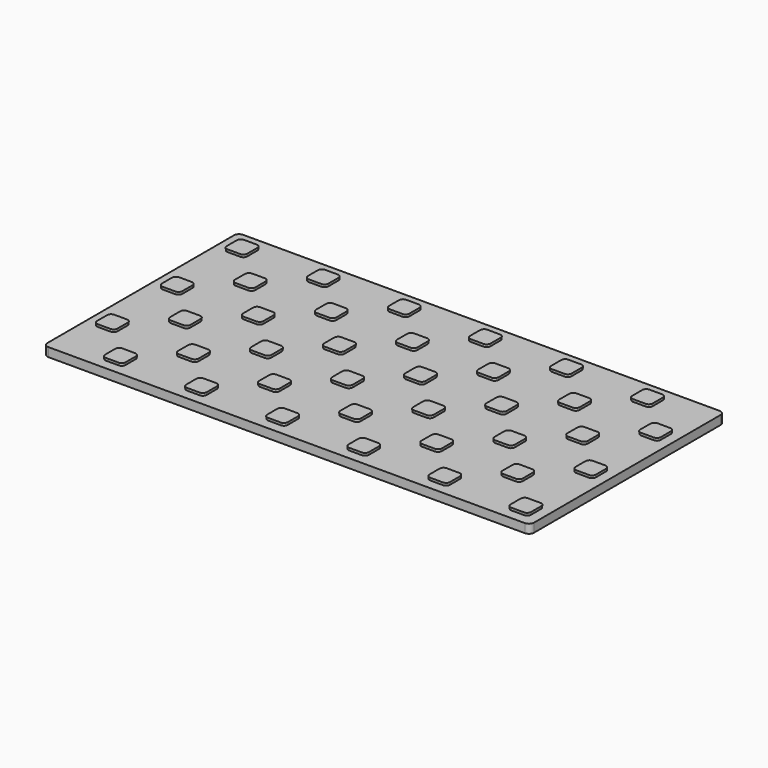
from build123d import *

# Parameters (mm, degrees)
F1_DEPTH = 22.225
F3_DEPTH = 6.35
F3_TAPER = -3


with BuildPart() as f1:
    # F0 (on Top) → F1 (new body)
    with BuildSketch(Plane.XY):
        with BuildLine():
            ThreePointArc((0, 12.7), (3.7197438789, 3.7197438789), (12.7, 0))
            Line((12.7, 0), (1206.5, 0))
            ThreePointArc((1206.5, 0), (1215.4802561211, 3.7197438789), (1219.2, 12.7))
            Line((1219.2, 12.7), (1219.2, 596.9))
            ThreePointArc((1219.2, 596.9), (1215.4802561211, 605.8802561211), (1206.5, 609.6))
            Line((1206.5, 609.6), (12.7, 609.6))
            ThreePointArc((12.7, 609.6), (3.7197438789, 605.8802561211), (0, 596.9))
            Line((0, 596.9), (0, 12.7))
        make_face()
    extrude(amount=F1_DEPTH)

    # F2 (on face) → F3 (join)
    with BuildSketch(Plane.XY.offset(22.225)):
        with BuildLine():
            ThreePointArc((76.2, 574.675), (73.4101920908, 581.4101920908), (66.675, 584.2))
            Line((66.675, 584.2), (34.925, 584.2))
            ThreePointArc((34.925, 584.2), (28.1898079092, 581.4101920908), (25.4, 574.675))
            Line((25.4, 574.675), (25.4, 542.925))
            ThreePointArc((25.4, 542.925), (28.1898079092, 536.1898079092), (34.925, 533.4))
            Line((34.925, 533.4), (66.675, 533.4))
            ThreePointArc((66.675, 533.4), (73.4101920908, 536.1898079092), (76.2, 542.925))
            Line((76.2, 542.925), (76.2, 574.675))
        make_face()
        with BuildLine():
            Line((76.2, 339.725), (76.2, 371.475))
            ThreePointArc((76.2, 371.475), (73.4101920908, 378.2101920908), (66.675, 381))
            Line((66.675, 381), (34.925, 381))
            ThreePointArc((34.925, 381), (28.1898079092, 378.2101920908), (25.4, 371.475))
            Line((25.4, 371.475), (25.4, 339.725))
            ThreePointArc((25.4, 339.725), (28.1898079092, 332.9898079092), (34.925, 330.2))
            Line((34.925, 330.2), (66.675, 330.2))
            ThreePointArc((66.675, 330.2), (73.4101920908, 332.9898079092), (76.2, 339.725))
        make_face()
        with BuildLine():
            Line((76.2, 136.525), (76.2, 168.275))
            ThreePointArc((76.2, 168.275), (73.4101920908, 175.0101920908), (66.675, 177.8))
            Line((66.675, 177.8), (34.925, 177.8))
            ThreePointArc((34.925, 177.8), (28.1898079092, 175.0101920908), (25.4, 168.275))
            Line((25.4, 168.275), (25.4, 136.525))
            ThreePointArc((25.4, 136.525), (28.1898079092, 129.7898079092), (34.925, 127))
            Line((34.925, 127), (66.675, 127))
            ThreePointArc((66.675, 127), (73.4101920908, 129.7898079092), (76.2, 136.525))
        make_face()
        with BuildLine():
            Line((279.4, 542.925), (279.4, 574.675))
            ThreePointArc((279.4, 574.675), (276.6101920908, 581.4101920908), (269.875, 584.2))
            Line((269.875, 584.2), (238.125, 584.2))
            ThreePointArc((238.125, 584.2), (231.3898079092, 581.4101920908), (228.6, 574.675))
            Line((228.6, 574.675), (228.6, 542.925))
            ThreePointArc((228.6, 542.925), (231.3898079092, 536.1898079092), (238.125, 533.4))
            Line((238.125, 533.4), (269.875, 533.4))
            ThreePointArc((269.875, 533.4), (276.6101920908, 536.1898079092), (279.4, 542.925))
        make_face()
        with BuildLine():
            Line((279.4, 339.725), (279.4, 371.475))
            ThreePointArc((279.4, 371.475), (276.6101920908, 378.2101920908), (269.875, 381))
            Line((269.875, 381), (238.125, 381))
            ThreePointArc((238.125, 381), (231.3898079092, 378.2101920908), (228.6, 371.475))
            Line((228.6, 371.475), (228.6, 339.725))
            ThreePointArc((228.6, 339.725), (231.3898079092, 332.9898079092), (238.125, 330.2))
            Line((238.125, 330.2), (269.875, 330.2))
            ThreePointArc((269.875, 330.2), (276.6101920908, 332.9898079092), (279.4, 339.725))
        make_face()
        with BuildLine():
            Line((279.4, 136.525), (279.4, 168.275))
            ThreePointArc((279.4, 168.275), (276.6101920908, 175.0101920908), (269.875, 177.8))
            Line((269.875, 177.8), (238.125, 177.8))
            ThreePointArc((238.125, 177.8), (231.3898079092, 175.0101920908), (228.6, 168.275))
            Line((228.6, 168.275), (228.6, 136.525))
            ThreePointArc((228.6, 136.525), (231.3898079092, 129.7898079092), (238.125, 127))
            Line((238.125, 127), (269.875, 127))
            ThreePointArc((269.875, 127), (276.6101920908, 129.7898079092), (279.4, 136.525))
        make_face()
        with BuildLine():
            Line((482.6, 542.925), (482.6, 574.675))
            ThreePointArc((482.6, 574.675), (479.8101920908, 581.4101920908), (473.075, 584.2))
            Line((473.075, 584.2), (441.325, 584.2))
            ThreePointArc((441.325, 584.2), (434.5898079092, 581.4101920908), (431.8, 574.675))
            Line((431.8, 574.675), (431.8, 542.925))
            ThreePointArc((431.8, 542.925), (434.5898079092, 536.1898079092), (441.325, 533.4))
            Line((441.325, 533.4), (473.075, 533.4))
            ThreePointArc((473.075, 533.4), (479.8101920908, 536.1898079092), (482.6, 542.925))
        make_face()
        with BuildLine():
            Line((482.6, 339.725), (482.6, 371.475))
            ThreePointArc((482.6, 371.475), (479.8101920908, 378.2101920908), (473.075, 381))
            Line((473.075, 381), (441.325, 381))
            ThreePointArc((441.325, 381), (434.5898079092, 378.2101920908), (431.8, 371.475))
            Line((431.8, 371.475), (431.8, 339.725))
            ThreePointArc((431.8, 339.725), (434.5898079092, 332.9898079092), (441.325, 330.2))
            Line((441.325, 330.2), (473.075, 330.2))
            ThreePointArc((473.075, 330.2), (479.8101920908, 332.9898079092), (482.6, 339.725))
        make_face()
        with BuildLine():
            Line((482.6, 136.525), (482.6, 168.275))
            ThreePointArc((482.6, 168.275), (479.8101920908, 175.0101920908), (473.075, 177.8))
            Line((473.075, 177.8), (441.325, 177.8))
            ThreePointArc((441.325, 177.8), (434.5898079092, 175.0101920908), (431.8, 168.275))
            Line((431.8, 168.275), (431.8, 136.525))
            ThreePointArc((431.8, 136.525), (434.5898079092, 129.7898079092), (441.325, 127))
            Line((441.325, 127), (473.075, 127))
            ThreePointArc((473.075, 127), (479.8101920908, 129.7898079092), (482.6, 136.525))
        make_face()
        with BuildLine():
            Line((685.8, 542.925), (685.8, 574.675))
            ThreePointArc((685.8, 574.675), (683.0101920908, 581.4101920908), (676.275, 584.2))
            Line((676.275, 584.2), (644.525, 584.2))
            ThreePointArc((644.525, 584.2), (637.7898079092, 581.4101920908), (635, 574.675))
            Line((635, 574.675), (635, 542.925))
            ThreePointArc((635, 542.925), (637.7898079092, 536.1898079092), (644.525, 533.4))
            Line((644.525, 533.4), (676.275, 533.4))
            ThreePointArc((676.275, 533.4), (683.0101920908, 536.1898079092), (685.8, 542.925))
        make_face()
        with BuildLine():
            Line((685.8, 339.725), (685.8, 371.475))
            ThreePointArc((685.8, 371.475), (683.0101920908, 378.2101920908), (676.275, 381))
            Line((676.275, 381), (644.525, 381))
            ThreePointArc((644.525, 381), (637.7898079092, 378.2101920908), (635, 371.475))
            Line((635, 371.475), (635, 339.725))
            ThreePointArc((635, 339.725), (637.7898079092, 332.9898079092), (644.525, 330.2))
            Line((644.525, 330.2), (676.275, 330.2))
            ThreePointArc((676.275, 330.2), (683.0101920908, 332.9898079092), (685.8, 339.725))
        make_face()
        with BuildLine():
            Line((685.8, 136.525), (685.8, 168.275))
            ThreePointArc((685.8, 168.275), (683.0101920908, 175.0101920908), (676.275, 177.8))
            Line((676.275, 177.8), (644.525, 177.8))
            ThreePointArc((644.525, 177.8), (637.7898079092, 175.0101920908), (635, 168.275))
            Line((635, 168.275), (635, 136.525))
            ThreePointArc((635, 136.525), (637.7898079092, 129.7898079092), (644.525, 127))
            Line((644.525, 127), (676.275, 127))
            ThreePointArc((676.275, 127), (683.0101920908, 129.7898079092), (685.8, 136.525))
        make_face()
        with BuildLine():
            Line((889, 542.925), (889, 574.675))
            ThreePointArc((889, 574.675), (886.2101920908, 581.4101920908), (879.475, 584.2))
            Line((879.475, 584.2), (847.725, 584.2))
            ThreePointArc((847.725, 584.2), (840.9898079092, 581.4101920908), (838.2, 574.675))
            Line((838.2, 574.675), (838.2, 542.925))
            ThreePointArc((838.2, 542.925), (840.9898079092, 536.1898079092), (847.725, 533.4))
            Line((847.725, 533.4), (879.475, 533.4))
            ThreePointArc((879.475, 533.4), (886.2101920908, 536.1898079092), (889, 542.925))
        make_face()
        with BuildLine():
            Line((889, 339.725), (889, 371.475))
            ThreePointArc((889, 371.475), (886.2101920908, 378.2101920908), (879.475, 381))
            Line((879.475, 381), (847.725, 381))
            ThreePointArc((847.725, 381), (840.9898079092, 378.2101920908), (838.2, 371.475))
            Line((838.2, 371.475), (838.2, 339.725))
            ThreePointArc((838.2, 339.725), (840.9898079092, 332.9898079092), (847.725, 330.2))
            Line((847.725, 330.2), (879.475, 330.2))
            ThreePointArc((879.475, 330.2), (886.2101920908, 332.9898079092), (889, 339.725))
        make_face()
        with BuildLine():
            Line((889, 136.525), (889, 168.275))
            ThreePointArc((889, 168.275), (886.2101920908, 175.0101920908), (879.475, 177.8))
            Line((879.475, 177.8), (847.725, 177.8))
            ThreePointArc((847.725, 177.8), (840.9898079092, 175.0101920908), (838.2, 168.275))
            Line((838.2, 168.275), (838.2, 136.525))
            ThreePointArc((838.2, 136.525), (840.9898079092, 129.7898079092), (847.725, 127))
            Line((847.725, 127), (879.475, 127))
            ThreePointArc((879.475, 127), (886.2101920908, 129.7898079092), (889, 136.525))
        make_face()
        with BuildLine():
            Line((1092.2, 542.925), (1092.2, 574.675))
            ThreePointArc((1092.2, 574.675), (1089.4101920908, 581.4101920908), (1082.675, 584.2))
            Line((1082.675, 584.2), (1050.925, 584.2))
            ThreePointArc((1050.925, 584.2), (1044.1898079092, 581.4101920908), (1041.4, 574.675))
            Line((1041.4, 574.675), (1041.4, 542.925))
            ThreePointArc((1041.4, 542.925), (1044.1898079092, 536.1898079092), (1050.925, 533.4))
            Line((1050.925, 533.4), (1082.675, 533.4))
            ThreePointArc((1082.675, 533.4), (1089.4101920908, 536.1898079092), (1092.2, 542.925))
        make_face()
        with BuildLine():
            Line((1092.2, 339.725), (1092.2, 371.475))
            ThreePointArc((1092.2, 371.475), (1089.4101920908, 378.2101920908), (1082.675, 381))
            Line((1082.675, 381), (1050.925, 381))
            ThreePointArc((1050.925, 381), (1044.1898079092, 378.2101920908), (1041.4, 371.475))
            Line((1041.4, 371.475), (1041.4, 339.725))
            ThreePointArc((1041.4, 339.725), (1044.1898079092, 332.9898079092), (1050.925, 330.2))
            Line((1050.925, 330.2), (1082.675, 330.2))
            ThreePointArc((1082.675, 330.2), (1089.4101920908, 332.9898079092), (1092.2, 339.725))
        make_face()
        with BuildLine():
            Line((1092.2, 136.525), (1092.2, 168.275))
            ThreePointArc((1092.2, 168.275), (1089.4101920908, 175.0101920908), (1082.675, 177.8))
            Line((1082.675, 177.8), (1050.925, 177.8))
            ThreePointArc((1050.925, 177.8), (1044.1898079092, 175.0101920908), (1041.4, 168.275))
            Line((1041.4, 168.275), (1041.4, 136.525))
            ThreePointArc((1041.4, 136.525), (1044.1898079092, 129.7898079092), (1050.925, 127))
            Line((1050.925, 127), (1082.675, 127))
            ThreePointArc((1082.675, 127), (1089.4101920908, 129.7898079092), (1092.2, 136.525))
        make_face()
        with BuildLine():
            ThreePointArc((177.8, 473.075), (175.0101920908, 479.8101920908), (168.275, 482.6))
            Line((168.275, 482.6), (136.525, 482.6))
            ThreePointArc((136.525, 482.6), (129.7898079092, 479.8101920908), (127, 473.075))
            Line((127, 473.075), (127, 441.325))
            ThreePointArc((127, 441.325), (129.7898079092, 434.5898079092), (136.525, 431.8))
            Line((136.525, 431.8), (168.275, 431.8))
            ThreePointArc((168.275, 431.8), (175.0101920908, 434.5898079092), (177.8, 441.325))
            Line((177.8, 441.325), (177.8, 473.075))
        make_face()
        with BuildLine():
            Line((136.525, 228.6), (168.275, 228.6))
            ThreePointArc((168.275, 228.6), (175.0101920908, 231.3898079092), (177.8, 238.125))
            Line((177.8, 238.125), (177.8, 269.875))
            ThreePointArc((177.8, 269.875), (175.0101920908, 276.6101920908), (168.275, 279.4))
            Line((168.275, 279.4), (136.525, 279.4))
            ThreePointArc((136.525, 279.4), (129.7898079092, 276.6101920908), (127, 269.875))
            Line((127, 269.875), (127, 238.125))
            ThreePointArc((127, 238.125), (129.7898079092, 231.3898079092), (136.525, 228.6))
        make_face()
        with BuildLine():
            Line((136.525, 25.4), (168.275, 25.4))
            ThreePointArc((168.275, 25.4), (175.0101920908, 28.1898079092), (177.8, 34.925))
            Line((177.8, 34.925), (177.8, 66.675))
            ThreePointArc((177.8, 66.675), (175.0101920908, 73.4101920908), (168.275, 76.2))
            Line((168.275, 76.2), (136.525, 76.2))
            ThreePointArc((136.525, 76.2), (129.7898079092, 73.4101920908), (127, 66.675))
            Line((127, 66.675), (127, 34.925))
            ThreePointArc((127, 34.925), (129.7898079092, 28.1898079092), (136.525, 25.4))
        make_face()
        with BuildLine():
            Line((339.725, 431.8), (371.475, 431.8))
            ThreePointArc((371.475, 431.8), (378.2101920908, 434.5898079092), (381, 441.325))
            Line((381, 441.325), (381, 473.075))
            ThreePointArc((381, 473.075), (378.2101920908, 479.8101920908), (371.475, 482.6))
            Line((371.475, 482.6), (339.725, 482.6))
            ThreePointArc((339.725, 482.6), (332.9898079092, 479.8101920908), (330.2, 473.075))
            Line((330.2, 473.075), (330.2, 441.325))
            ThreePointArc((330.2, 441.325), (332.9898079092, 434.5898079092), (339.725, 431.8))
        make_face()
        with BuildLine():
            Line((339.725, 228.6), (371.475, 228.6))
            ThreePointArc((371.475, 228.6), (378.2101920908, 231.3898079092), (381, 238.125))
            Line((381, 238.125), (381, 269.875))
            ThreePointArc((381, 269.875), (378.2101920908, 276.6101920908), (371.475, 279.4))
            Line((371.475, 279.4), (339.725, 279.4))
            ThreePointArc((339.725, 279.4), (332.9898079092, 276.6101920908), (330.2, 269.875))
            Line((330.2, 269.875), (330.2, 238.125))
            ThreePointArc((330.2, 238.125), (332.9898079092, 231.3898079092), (339.725, 228.6))
        make_face()
        with BuildLine():
            Line((339.725, 25.4), (371.475, 25.4))
            ThreePointArc((371.475, 25.4), (378.2101920908, 28.1898079092), (381, 34.925))
            Line((381, 34.925), (381, 66.675))
            ThreePointArc((381, 66.675), (378.2101920908, 73.4101920908), (371.475, 76.2))
            Line((371.475, 76.2), (339.725, 76.2))
            ThreePointArc((339.725, 76.2), (332.9898079092, 73.4101920908), (330.2, 66.675))
            Line((330.2, 66.675), (330.2, 34.925))
            ThreePointArc((330.2, 34.925), (332.9898079092, 28.1898079092), (339.725, 25.4))
        make_face()
        with BuildLine():
            Line((542.925, 431.8), (574.675, 431.8))
            ThreePointArc((574.675, 431.8), (581.4101920908, 434.5898079092), (584.2, 441.325))
            Line((584.2, 441.325), (584.2, 473.075))
            ThreePointArc((584.2, 473.075), (581.4101920908, 479.8101920908), (574.675, 482.6))
            Line((574.675, 482.6), (542.925, 482.6))
            ThreePointArc((542.925, 482.6), (536.1898079092, 479.8101920908), (533.4, 473.075))
            Line((533.4, 473.075), (533.4, 441.325))
            ThreePointArc((533.4, 441.325), (536.1898079092, 434.5898079092), (542.925, 431.8))
        make_face()
        with BuildLine():
            Line((542.925, 228.6), (574.675, 228.6))
            ThreePointArc((574.675, 228.6), (581.4101920908, 231.3898079092), (584.2, 238.125))
            Line((584.2, 238.125), (584.2, 269.875))
            ThreePointArc((584.2, 269.875), (581.4101920908, 276.6101920908), (574.675, 279.4))
            Line((574.675, 279.4), (542.925, 279.4))
            ThreePointArc((542.925, 279.4), (536.1898079092, 276.6101920908), (533.4, 269.875))
            Line((533.4, 269.875), (533.4, 238.125))
            ThreePointArc((533.4, 238.125), (536.1898079092, 231.3898079092), (542.925, 228.6))
        make_face()
        with BuildLine():
            Line((542.925, 25.4), (574.675, 25.4))
            ThreePointArc((574.675, 25.4), (581.4101920908, 28.1898079092), (584.2, 34.925))
            Line((584.2, 34.925), (584.2, 66.675))
            ThreePointArc((584.2, 66.675), (581.4101920908, 73.4101920908), (574.675, 76.2))
            Line((574.675, 76.2), (542.925, 76.2))
            ThreePointArc((542.925, 76.2), (536.1898079092, 73.4101920908), (533.4, 66.675))
            Line((533.4, 66.675), (533.4, 34.925))
            ThreePointArc((533.4, 34.925), (536.1898079092, 28.1898079092), (542.925, 25.4))
        make_face()
        with BuildLine():
            Line((746.125, 431.8), (777.875, 431.8))
            ThreePointArc((777.875, 431.8), (784.6101920908, 434.5898079092), (787.4, 441.325))
            Line((787.4, 441.325), (787.4, 473.075))
            ThreePointArc((787.4, 473.075), (784.6101920908, 479.8101920908), (777.875, 482.6))
            Line((777.875, 482.6), (746.125, 482.6))
            ThreePointArc((746.125, 482.6), (739.3898079092, 479.8101920908), (736.6, 473.075))
            Line((736.6, 473.075), (736.6, 441.325))
            ThreePointArc((736.6, 441.325), (739.3898079092, 434.5898079092), (746.125, 431.8))
        make_face()
        with BuildLine():
            Line((746.125, 228.6), (777.875, 228.6))
            ThreePointArc((777.875, 228.6), (784.6101920908, 231.3898079092), (787.4, 238.125))
            Line((787.4, 238.125), (787.4, 269.875))
            ThreePointArc((787.4, 269.875), (784.6101920908, 276.6101920908), (777.875, 279.4))
            Line((777.875, 279.4), (746.125, 279.4))
            ThreePointArc((746.125, 279.4), (739.3898079092, 276.6101920908), (736.6, 269.875))
            Line((736.6, 269.875), (736.6, 238.125))
            ThreePointArc((736.6, 238.125), (739.3898079092, 231.3898079092), (746.125, 228.6))
        make_face()
        with BuildLine():
            Line((746.125, 25.4), (777.875, 25.4))
            ThreePointArc((777.875, 25.4), (784.6101920908, 28.1898079092), (787.4, 34.925))
            Line((787.4, 34.925), (787.4, 66.675))
            ThreePointArc((787.4, 66.675), (784.6101920908, 73.4101920908), (777.875, 76.2))
            Line((777.875, 76.2), (746.125, 76.2))
            ThreePointArc((746.125, 76.2), (739.3898079092, 73.4101920908), (736.6, 66.675))
            Line((736.6, 66.675), (736.6, 34.925))
            ThreePointArc((736.6, 34.925), (739.3898079092, 28.1898079092), (746.125, 25.4))
        make_face()
        with BuildLine():
            Line((949.325, 431.8), (981.075, 431.8))
            ThreePointArc((981.075, 431.8), (987.8101920908, 434.5898079092), (990.6, 441.325))
            Line((990.6, 441.325), (990.6, 473.075))
            ThreePointArc((990.6, 473.075), (987.8101920908, 479.8101920908), (981.075, 482.6))
            Line((981.075, 482.6), (949.325, 482.6))
            ThreePointArc((949.325, 482.6), (942.5898079092, 479.8101920908), (939.8, 473.075))
            Line((939.8, 473.075), (939.8, 441.325))
            ThreePointArc((939.8, 441.325), (942.5898079092, 434.5898079092), (949.325, 431.8))
        make_face()
        with BuildLine():
            Line((949.325, 228.6), (981.075, 228.6))
            ThreePointArc((981.075, 228.6), (987.8101920908, 231.3898079092), (990.6, 238.125))
            Line((990.6, 238.125), (990.6, 269.875))
            ThreePointArc((990.6, 269.875), (987.8101920908, 276.6101920908), (981.075, 279.4))
            Line((981.075, 279.4), (949.325, 279.4))
            ThreePointArc((949.325, 279.4), (942.5898079092, 276.6101920908), (939.8, 269.875))
            Line((939.8, 269.875), (939.8, 238.125))
            ThreePointArc((939.8, 238.125), (942.5898079092, 231.3898079092), (949.325, 228.6))
        make_face()
        with BuildLine():
            Line((949.325, 25.4), (981.075, 25.4))
            ThreePointArc((981.075, 25.4), (987.8101920908, 28.1898079092), (990.6, 34.925))
            Line((990.6, 34.925), (990.6, 66.675))
            ThreePointArc((990.6, 66.675), (987.8101920908, 73.4101920908), (981.075, 76.2))
            Line((981.075, 76.2), (949.325, 76.2))
            ThreePointArc((949.325, 76.2), (942.5898079092, 73.4101920908), (939.8, 66.675))
            Line((939.8, 66.675), (939.8, 34.925))
            ThreePointArc((939.8, 34.925), (942.5898079092, 28.1898079092), (949.325, 25.4))
        make_face()
        with BuildLine():
            Line((1152.525, 431.8), (1184.275, 431.8))
            ThreePointArc((1184.275, 431.8), (1191.0101920908, 434.5898079092), (1193.8, 441.325))
            Line((1193.8, 441.325), (1193.8, 473.075))
            ThreePointArc((1193.8, 473.075), (1191.0101920908, 479.8101920908), (1184.275, 482.6))
            Line((1184.275, 482.6), (1152.525, 482.6))
            ThreePointArc((1152.525, 482.6), (1145.7898079092, 479.8101920908), (1143, 473.075))
            Line((1143, 473.075), (1143, 441.325))
            ThreePointArc((1143, 441.325), (1145.7898079092, 434.5898079092), (1152.525, 431.8))
        make_face()
        with BuildLine():
            Line((1152.525, 228.6), (1184.275, 228.6))
            ThreePointArc((1184.275, 228.6), (1191.0101920908, 231.3898079092), (1193.8, 238.125))
            Line((1193.8, 238.125), (1193.8, 269.875))
            ThreePointArc((1193.8, 269.875), (1191.0101920908, 276.6101920908), (1184.275, 279.4))
            Line((1184.275, 279.4), (1152.525, 279.4))
            ThreePointArc((1152.525, 279.4), (1145.7898079092, 276.6101920908), (1143, 269.875))
            Line((1143, 269.875), (1143, 238.125))
            ThreePointArc((1143, 238.125), (1145.7898079092, 231.3898079092), (1152.525, 228.6))
        make_face()
        with BuildLine():
            Line((1152.525, 25.4), (1184.275, 25.4))
            ThreePointArc((1184.275, 25.4), (1191.0101920908, 28.1898079092), (1193.8, 34.925))
            Line((1193.8, 34.925), (1193.8, 66.675))
            ThreePointArc((1193.8, 66.675), (1191.0101920908, 73.4101920908), (1184.275, 76.2))
            Line((1184.275, 76.2), (1152.525, 76.2))
            ThreePointArc((1152.525, 76.2), (1145.7898079092, 73.4101920908), (1143, 66.675))
            Line((1143, 66.675), (1143, 34.925))
            ThreePointArc((1143, 34.925), (1145.7898079092, 28.1898079092), (1152.525, 25.4))
        make_face()
    extrude(amount=F3_DEPTH, taper=F3_TAPER)


solid = f1.part
